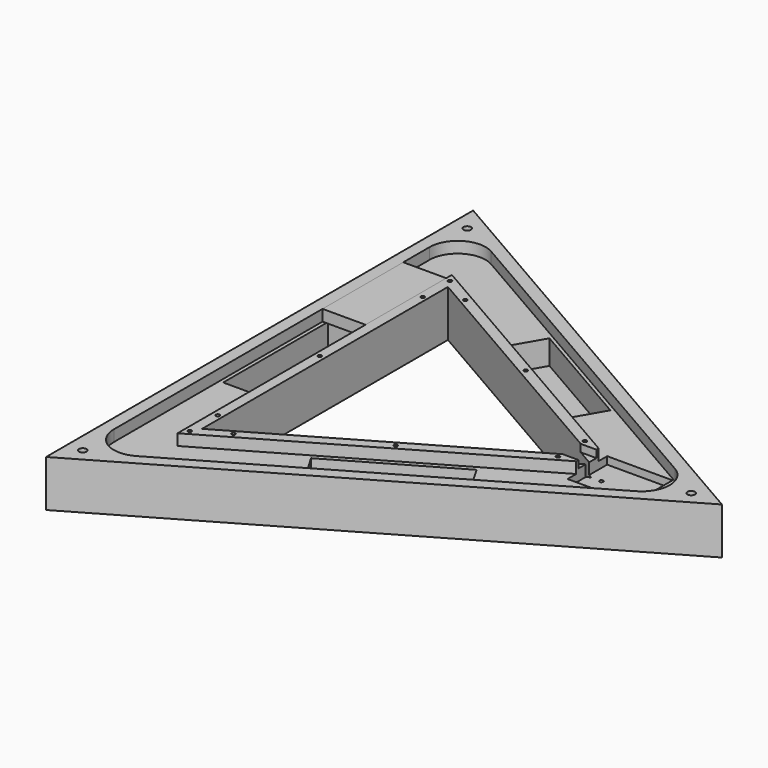
from build123d import *

# Parameters (mm, degrees)
BOX005_W               = 23
BOX005_H               = 54
BOX005_DEPTH           = 6
PRISM003_DEPTH         = 6
PRISM002_DEPTH         = 6
BOX004_W               = 10
BOX004_H               = 12
BOX004_DEPTH           = 4
BOX003_W               = 35
BOX003_H               = 26.5
BOX003_DEPTH           = 10
BOX002_W               = 70
BOX002_H               = 19
BOX002_DEPTH           = 19
BOX002_PLACEMENT_ANGLE = 30
BOX001_W               = 70
BOX001_H               = 19
BOX001_DEPTH           = 19
BOX001_PLACEMENT_ANGLE = 90
BOX_W                  = 70
BOX_H                  = 19
BOX_DEPTH              = 19
BOX_PLACEMENT_ANGLE    = 30
PRISM001_DEPTH         = 25
PRISM_DEPTH            = 25
FILLET_R               = 15
SKETCH001_R            = 2
POCKET_DEPTH           = 782.777352
POLARPATTERN_COUNT     = 3
POCKET001_DEPTH        = 3
SKETCH002_R            = 1
POCKET002_DEPTH        = 782.777352
POLARPATTERN001_COUNT  = 3
SKETCH004_R            = 1
POCKET003_DEPTH        = 782.777352
POLARPATTERN002_COUNT  = 3


with BuildPart() as box005:
    # Box005 → Box005 (new body)
    with BuildSketch(Plane(origin=(-76, 34, 13), x_dir=(1, 0, 0), z_dir=(0, 0, 1))):
        with Locations((11.5, 27)):
            Rectangle(BOX005_W, BOX005_H)
    extrude(amount=BOX005_DEPTH)


with BuildPart() as prism003:
    # Prism003 → Prism003 (new body)
    with BuildSketch(Plane.XY.offset(13)):
        Polygon((106, 0), (-53, 91.798693), (-53, -91.798693), align=None)
    extrude(amount=PRISM003_DEPTH)


with BuildPart() as cut006:
    # Prism002 → Prism002 (new body)
    with BuildSketch(Plane.XY.offset(13)):
        Polygon((152, 0), (-76, 131.635861), (-76, -131.635861), align=None)
    extrude(amount=PRISM002_DEPTH)

    # Cut006: cut Prism003
    add(prism003.part, mode=Mode.SUBTRACT)


with BuildPart() as box004:
    # Box004 → Box004 (new body)
    with BuildSketch(Plane(origin=(84, -6, 15), x_dir=(1, 0, 0), z_dir=(0, 0, 1))):
        with Locations((5, 6)):
            Rectangle(BOX004_W, BOX004_H)
    extrude(amount=BOX004_DEPTH)


with BuildPart() as box003:
    # Box003 → Box003 (new body)
    with BuildSketch(Plane(origin=(93, -13.3, 9), x_dir=(1, 0, 0), z_dir=(0, 0, 1))):
        with Locations((17.5, 13.25)):
            Rectangle(BOX003_W, BOX003_H)
    extrude(amount=BOX003_DEPTH)


with BuildPart() as box002:
    # Box002 → Box002 (new body)
    with BuildSketch(Plane.XY):
        with Locations((35, 9.5)):
            Rectangle(BOX002_W, BOX002_H)
    extrude(amount=BOX002_DEPTH)


with BuildPart() as box002_1:
    # Box002 placement: moved
    add(box002.part.moved(Location((7, -82, 0))).rotate(Axis((7, -82, 0), (0, 0, 1)), BOX002_PLACEMENT_ANGLE))


with BuildPart() as box001:
    # Box001 → Box001 (new body)
    with BuildSketch(Plane.XY):
        with Locations((35, 9.5)):
            Rectangle(BOX001_W, BOX001_H)
    extrude(amount=BOX001_DEPTH)


with BuildPart() as box001_1:
    # Box001 placement: moved
    add(box001.part.moved(Location((-55, -35, 0))).rotate(Axis((-55, -35, 0), (0, 0, 1)), BOX001_PLACEMENT_ANGLE))


with BuildPart() as box:
    # Box → Box (new body)
    with BuildSketch(Plane.XY):
        with Locations((35, 9.5)):
            Rectangle(BOX_W, BOX_H)
    extrude(amount=BOX_DEPTH)


with BuildPart() as box_1:
    # Box placement: moved
    add(box.part.moved(Location((-2, 65, 0))).rotate(Axis((-2, 65, 0), (0, 0, -1)), BOX_PLACEMENT_ANGLE))


with BuildPart() as prism001:
    # Prism001 → Prism001 (new body)
    with BuildSketch(Plane.XY.offset(-6)):
        Polygon((95, 0), (-47.5, 82.272413), (-47.5, -82.272413), align=None)
    extrude(amount=PRISM001_DEPTH)


with BuildPart() as body:
    # Prism → Prism (new body)
    with BuildSketch(Plane.XY.offset(-6)):
        Polygon((165, 0), (-82.5, 142.894192), (-82.5, -142.894192), align=None)
    extrude(amount=PRISM_DEPTH)

    # Cut: cut Prism001
    add(prism001.part, mode=Mode.SUBTRACT)

    # Cut001: cut Box
    add(box_1.part, mode=Mode.SUBTRACT)

    # Cut002: cut Box001
    add(box001_1.part, mode=Mode.SUBTRACT)

    # Cut003: cut Box002
    add(box002_1.part, mode=Mode.SUBTRACT)

    # Cut004: cut Box003
    add(box003.part, mode=Mode.SUBTRACT)

    # Cut005: cut Box004
    add(box004.part, mode=Mode.SUBTRACT)

    # Cut007: cut Cut006
    add(cut006.part, mode=Mode.SUBTRACT)

    # Fillet
    fillet_edges = [body.edges().sort_by_distance(p)[0] for p in [
        (152, 0, 16),
        (-76, 131.635861, 16),
        (-76, -131.635861, 16),
    ]]
    fillet(fillet_edges, radius=FILLET_R)

    # Sketch001 (on Face1 of BaseFeature) → Pocket (cut, through all)
    with BuildSketch(Plane.XY.offset(19)):
        with Locations((148.549835, 0)):
            Circle(SKETCH001_R)
    pocket = extrude(amount=-POCKET_DEPTH, mode=Mode.SUBTRACT)

    # PolarPattern: Pocket ×3 about axis
    polarpattern_axis = Axis((0, 0, 19), (0, 0, 1))
    for i in range(1, POLARPATTERN_COUNT):
        add(pocket.rotate(polarpattern_axis, i * 360 / POLARPATTERN_COUNT), mode=Mode.SUBTRACT)

    # Sketch003 (on Face14 of PolarPattern) → Pocket001 (cut)
    with BuildSketch(Plane(origin=(0, 0, -6), x_dir=(1, 0, 0), z_dir=(0, 0, -1))):
        Polygon((-70.5, 122.109582), (141, 0), (-70.5, -122.109582), align=None)
        Polygon((-59.5, -103.057023), (-59.5, 103.057023), (119, 0), align=None, mode=Mode.SUBTRACT)
    extrude(amount=-POCKET001_DEPTH, mode=Mode.SUBTRACT)

    # Sketch002 (on Face39 of PolarPattern) → Pocket002 (cut, through all)
    with BuildSketch(Plane.XY.offset(19)):
        with Locations((-50.25, 0)):
            Circle(SKETCH002_R)
        with Locations((-50.25, 87.035553)):
            Circle(SKETCH002_R)
    pocket002 = extrude(amount=-POCKET002_DEPTH, mode=Mode.SUBTRACT)

    # PolarPattern001: Pocket002 ×3 about axis
    polarpattern001_axis = Axis((0, 0, 19), (0, 0, 1))
    for i in range(1, POLARPATTERN001_COUNT):
        add(pocket002.rotate(polarpattern001_axis, i * 360 / POLARPATTERN001_COUNT), mode=Mode.SUBTRACT)

    # Sketch004 (on Face40 of PolarPattern001) → Pocket003 (cut, through all)
    with BuildSketch(Plane.XY.offset(19)):
        with Locations((84.411543, 9)):
            Circle(SKETCH004_R)
        with Locations((84.411543, -9)):
            Circle(SKETCH004_R)
    pocket003 = extrude(amount=-POCKET003_DEPTH, mode=Mode.SUBTRACT)

    # PolarPattern002: Pocket003 ×3 about axis
    polarpattern002_axis = Axis((0, 0, 19), (0, 0, 1))
    for i in range(1, POLARPATTERN002_COUNT):
        add(pocket003.rotate(polarpattern002_axis, i * 360 / POLARPATTERN002_COUNT), mode=Mode.SUBTRACT)


solid = Compound([box005.part, body.part])
